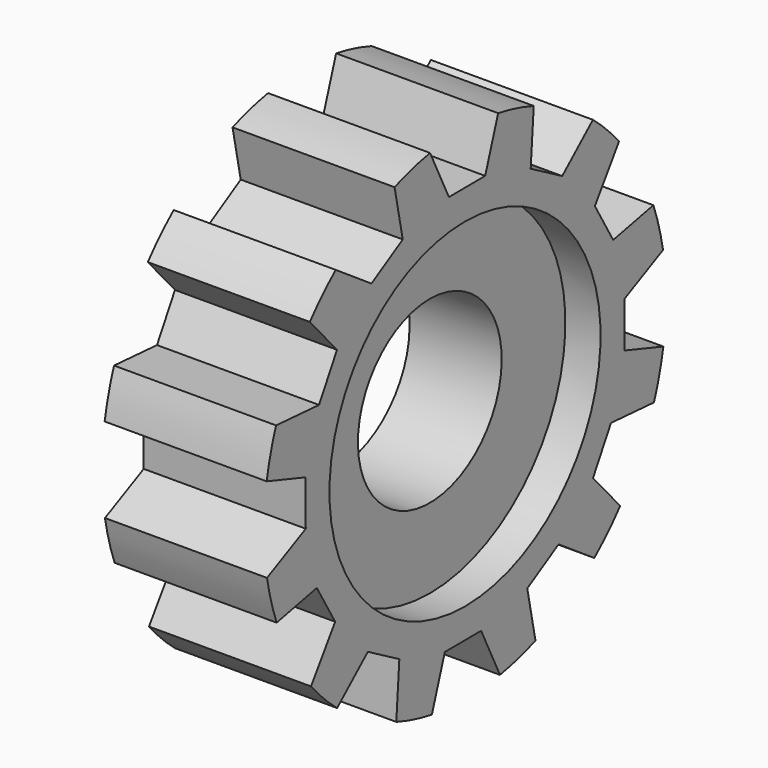
from build123d import *

# Parameters (mm, degrees)
F0_W     = 13.0011960864
F0_H     = 11.2356059253
F3_DEPTH = 35.5538306758
F4_COUNT = 12


with BuildPart() as f1:
    # F0 (on Front) → F1 (revolve)
    with BuildSketch(Plane.XZ):
        Polygon((12.4220475554, 53.374812007), (-10.4466825724, 53.374812007), (-10.4466825724, 41.814442724), (-5.5474191904, 41.814442724), (7.453776896, 41.814442724), (12.4220475554, 41.814442724), align=None)
        with Locations((0.9531788528, 36.1966397613)):
            Rectangle(F0_W, F0_H)
    revolve(axis=Axis((1.9577341154, 0, 17.8986564279), (1, 0, 0)))

    # F2 (on Right) → F3 (cut, symmetric)
    with BuildSketch(Plane.YZ):
        Polygon((6.6623128951, 55.3299412131), (-6.9674830884, 54.4798821211), (-2.8427802026, 45.9955856204), (3.5579316318, 46.0315644741), align=None)
    f3 = extrude(amount=F3_DEPTH, both=True, mode=Mode.SUBTRACT)

    # F4: F3 ×12 about axis
    f4_axis = Axis((12.4220475554, 0, 17.8986564279), (1, 0, 0))
    for i in range(1, F4_COUNT):
        add(f3.rotate(f4_axis, i * 360 / F4_COUNT), mode=Mode.SUBTRACT)


solid = f1.part
